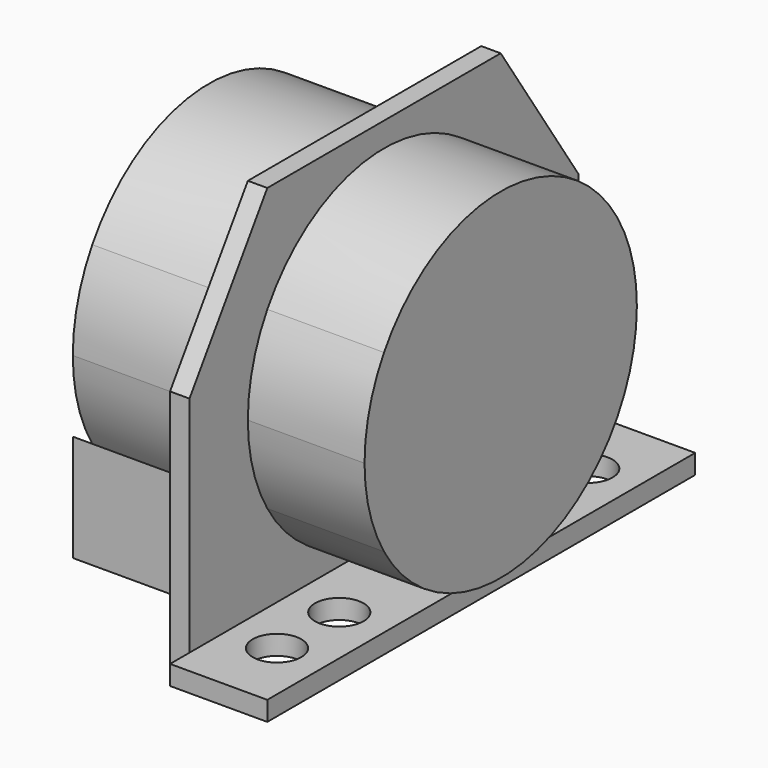
from build123d import *

# Parameters (mm, degrees)
F0_W          = 10
F0_H          = 55
F0_R          = 2.5
F1_DEPTH      = 2
F2_W          = 30
F2_H          = 2
F2_W_2        = 10
F3_DEPTH      = 2
F4_DEPTH      = 12
F4_DEPTH_BACK = 18
F5_DEPTH      = 20
F6_R          = 2.5
F7_DEPTH      = 10


with BuildPart() as f1:
    # F0 (on Top) → F1 (new body)
    with BuildSketch(Plane.XY):
        Rectangle(F0_W, F0_H)
        with Locations((0, -20)):
            Circle(F0_R, mode=Mode.SUBTRACT)
        with Locations((0, -12)):
            Circle(F0_R, mode=Mode.SUBTRACT)
        with Locations((0, 12)):
            Circle(F0_R, mode=Mode.SUBTRACT)
        with Locations((0, 20)):
            Circle(F0_R, mode=Mode.SUBTRACT)
    extrude(amount=F1_DEPTH)

    # F2 (on face) → F3 (join)
    with BuildSketch(Plane(origin=(-5, 0, 0), x_dir=(0, -1, 0), z_dir=(-1, 0, 0))):
        with Locations((0, 1)):
            Rectangle(F2_W, F2_H)
        with Locations((-20, 1)):
            Rectangle(F2_W_2, F2_H)
        with Locations((20, 1)):
            Rectangle(F2_W_2, F2_H)
        with BuildLine():
            Line((-25, 25), (-25, 2))
            Line((-25, 2), (-15, 2))
            Line((-15, 2), (-15, 10.9861218113))
            ThreePointArc((-15, 10.9861218113), (-17.5, 20), (-15, 29.0138781887))
            Line((-15, 29.0138781887), (-15, 40))
            Line((-15, 40), (-25, 25))
        make_face()
        with BuildLine():
            Line((-15, 10.9861218113), (-15, 2))
            Line((-15, 2), (15, 2))
            Line((15, 2), (15, 10.9861218113))
            ThreePointArc((15, 10.9861218113), (0, 2.5), (-15, 10.9861218113))
        make_face()
        with BuildLine():
            Line((15, 10.9861218113), (15, 2))
            Line((15, 2), (25, 2))
            Line((25, 2), (25, 25))
            Line((25, 25), (15, 40))
            Line((15, 40), (15, 29.0138781887))
            ThreePointArc((15, 29.0138781887), (16.863421954, 24.6770717335), (17.5, 20))
            ThreePointArc((17.5, 20), (16.863421954, 15.3229282665), (15, 10.9861218113))
        make_face()
        with BuildLine():
            Line((0, 40), (-15, 40))
            Line((-15, 40), (-15, 29.0138781887))
            ThreePointArc((-15, 29.0138781887), (0, 37.5), (15, 29.0138781887))
            Line((15, 29.0138781887), (15, 40))
            Line((15, 40), (0, 40))
        make_face()
    extrude(amount=F3_DEPTH)

    # F2 (on face) → F4 (join, two sides)
    with BuildSketch(Plane(origin=(-5, 0, 0), x_dir=(0, -1, 0), z_dir=(-1, 0, 0))) as f4_sk:
        with BuildLine():
            Line((-15, 29.0138781887), (-15, 10.9861218113))
            ThreePointArc((-15, 10.9861218113), (0, 2.5), (15, 10.9861218113))
            Line((15, 10.9861218113), (15, 29.0138781887))
            ThreePointArc((15, 29.0138781887), (0, 37.5), (-15, 29.0138781887))
        make_face()
        with BuildLine():
            Line((15, 29.0138781887), (15, 10.9861218113))
            ThreePointArc((15, 10.9861218113), (16.863421954, 15.3229282665), (17.5, 20))
            ThreePointArc((17.5, 20), (16.863421954, 24.6770717335), (15, 29.0138781887))
        make_face()
        with BuildLine():
            ThreePointArc((-15, 29.0138781887), (-17.5, 20), (-15, 10.9861218113))
            Line((-15, 10.9861218113), (-15, 29.0138781887))
        make_face()
    extrude(amount=-F4_DEPTH)
    extrude(f4_sk.sketch, amount=F4_DEPTH_BACK)

    # F2 (on face) → F5 (join)
    with BuildSketch(Plane(origin=(-5, 0, 0), x_dir=(0, -1, 0), z_dir=(-1, 0, 0))):
        with BuildLine():
            Line((-15, 10.9861218113), (-15, 2))
            Line((-15, 2), (15, 2))
            Line((15, 2), (15, 10.9861218113))
            ThreePointArc((15, 10.9861218113), (0, 2.5), (-15, 10.9861218113))
        make_face()
        with Locations((0, 1)):
            Rectangle(F2_W, F2_H)
    extrude(amount=F5_DEPTH)

    # F6 (on face) → F7 (join)
    with BuildSketch(Plane(origin=(0, 0, 0), x_dir=(1, 0, 0), z_dir=(0, 0, -1))):
        with Locations((-18, -7)):
            Circle(F6_R)
        with Locations((-18, 7)):
            Circle(F6_R)
    extrude(amount=F7_DEPTH)


solid = f1.part
